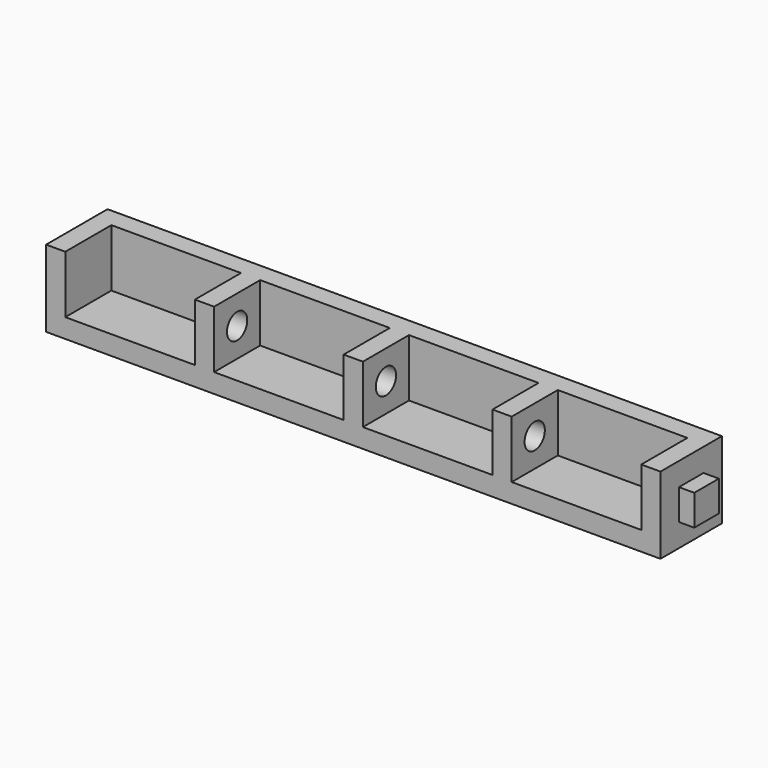
from build123d import *

# Parameters (mm, degrees)
F0_W      = 80
F0_H      = 10
F1_DEPTH  = 10
F2_W      = 4
F2_H      = 4
F3_DEPTH  = 2
F4_W      = 4
F4_H      = 4
F5_DEPTH  = 2
F6_T      = -2.5
F7_W      = 2.5
F7_H      = 7.5
F8_DEPTH  = 7.5
F9_R      = 1.65
F10_DEPTH = 41.25


with BuildPart() as f1:
    # F0 (on Top) → F1 (new body)
    with BuildSketch(Plane.XY):
        Rectangle(F0_W, F0_H)
    extrude(amount=F1_DEPTH)

    # F2 (on face) → F3 (join)
    with BuildSketch(Plane.YZ.offset(40)):
        with Locations((0, 5)):
            Rectangle(F2_W, F2_H)
        with Locations((0, 5)):
            Rectangle(F2_W, F2_H)
    extrude(amount=F3_DEPTH)

    # F4 (on face) → F5 (join)
    with BuildSketch(Plane(origin=(-40, 0, 0), x_dir=(0, -1, 0), z_dir=(-1, 0, 0))):
        with Locations((0, 5)):
            Rectangle(F4_W, F4_H)
    extrude(amount=F5_DEPTH)

    # F6
    f6_openings = [f1.faces().sort_by_distance(p)[0] for p in [
        (0, -5, 5),
        (0, 0, 10),
    ]]
    offset(amount=F6_T, openings=f6_openings, kind=Kind.INTERSECTION)

    # F7 (on face) → F8 (join, through all)
    with BuildSketch(Plane.XY.offset(2.5)):
        with Locations((-19.375, -1.25)):
            Rectangle(F7_W, F7_H)
        with Locations((0, -1.25)):
            Rectangle(F7_W, F7_H)
        with Locations((19.375, -1.25)):
            Rectangle(F7_W, F7_H)
    extrude(amount=F8_DEPTH)

    # F9 (on face) → F10 (cut, through all)
    with BuildSketch(Plane(origin=(-20.625, 0, 0), x_dir=(0, -1, 0), z_dir=(-1, 0, 0))):
        with Locations((1.25, 6.25)):
            Circle(F9_R)
    extrude(amount=-F10_DEPTH, mode=Mode.SUBTRACT)


solid = f1.part
